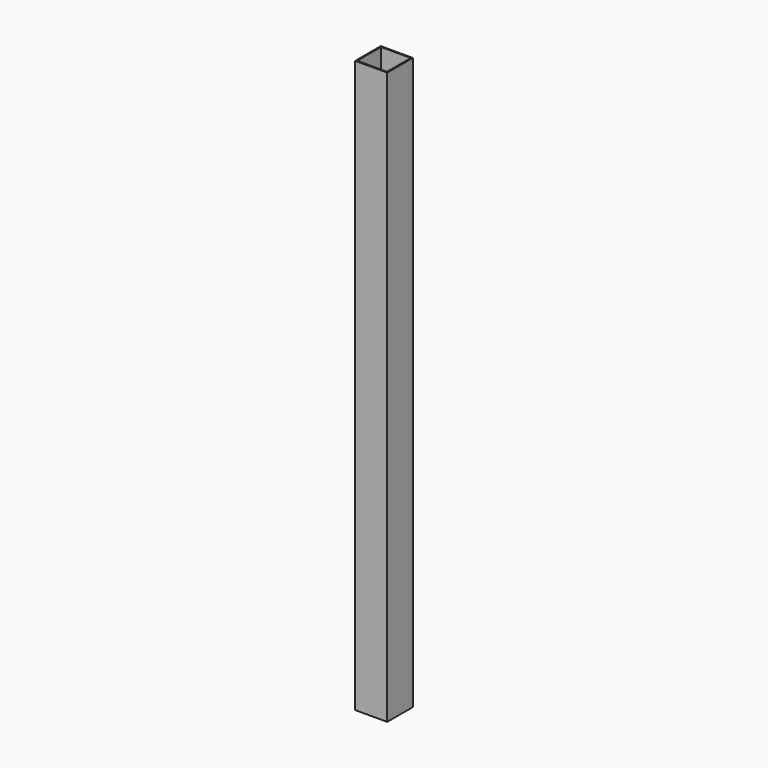
from build123d import *

# Parameters (mm, degrees)
F1_W     = 136.525
F1_H     = 136.525
F1_W_2   = 127
F1_H_2   = 127
F2_DEPTH = 2438.4


with BuildPart() as f2:
    # F1 (on face) → F2 (new body)
    with BuildSketch(Plane.XY):
        with Locations((32.050386, 37.600021)):
            Rectangle(F1_W, F1_H)
        with Locations((32.050386, 37.600021)):
            Rectangle(F1_W_2, F1_H_2, mode=Mode.SUBTRACT)
    extrude(amount=F2_DEPTH)


solid = f2.part
